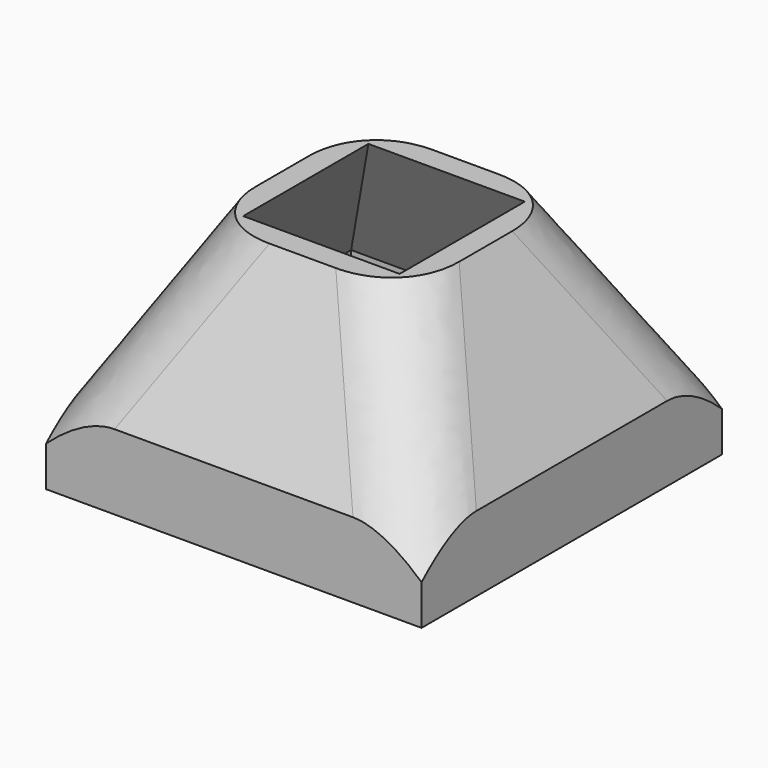
from build123d import *

# Parameters (mm, degrees)
F0_W     = 30.48
F0_H     = 30.48
F0_W_2   = 26.67
F0_H_2   = 26.67
F1_DEPTH = 2.286
F2_DEPTH = 3.81
F10_R    = 6.35


with BuildPart() as f1:
    # F0 (on Top) → F1 (new body)
    with BuildSketch(Plane.XY):
        Rectangle(F0_W, F0_H)
        Rectangle(F0_W_2, F0_H_2, mode=Mode.SUBTRACT)
    extrude(amount=-F1_DEPTH)

    # F0 (on Top) → F2 (join)
    with BuildSketch(Plane.XY):
        Rectangle(F0_W, F0_H)
        Rectangle(F0_W_2, F0_H_2, mode=Mode.SUBTRACT)
    extrude(amount=F2_DEPTH)

    # F5 (on face) → F6 section 0
    with BuildSketch(Plane.XY.offset(3.81)):
        Polygon((-13.335, 13.335), (-15.24, 15.24), (-15.24, -15.24), (-13.335, -13.335), align=None)
    # F4 (on offset) → F6 section 1
    with BuildSketch(Plane.XY.offset(16.51)):
        Polygon((-6.35, -6.35), (-6.35, 6.35), (-8.255, 8.255), (-8.255, -8.255), align=None)
    loft()

    # F5 (on face) → F7 section 0
    with BuildSketch(Plane.XY.offset(3.81)):
        Polygon((-15.24, -15.24), (15.24, -15.24), (13.335, -13.335), (-13.335, -13.335), align=None)
    # F4 (on offset) → F7 section 1
    with BuildSketch(Plane.XY.offset(16.51)):
        Polygon((8.255, -8.255), (6.35, -6.35), (-6.35, -6.35), (-8.255, -8.255), align=None)
    loft()

    # F5 (on face) → F8 section 0
    with BuildSketch(Plane.XY.offset(3.81)):
        Polygon((15.24, -15.24), (15.24, 15.24), (13.335, 13.335), (13.335, -13.335), align=None)
    # F4 (on offset) → F8 section 1
    with BuildSketch(Plane.XY.offset(16.51)):
        Polygon((8.255, 8.255), (6.35, 6.35), (6.35, -6.35), (8.255, -8.255), align=None)
    loft()

    # F5 (on face) → F9 section 0
    with BuildSketch(Plane.XY.offset(3.81)):
        Polygon((13.335, 13.335), (15.24, 15.24), (-15.24, 15.24), (-13.335, 13.335), align=None)
    # F4 (on offset) → F9 section 1
    with BuildSketch(Plane.XY.offset(16.51)):
        Polygon((-6.35, 6.35), (6.35, 6.35), (8.255, 8.255), (-8.255, 8.255), align=None)
    loft()

    # F10
    f10_edges = [f1.edges().sort_by_distance(p)[0] for p in [
        (-11.7475, -11.7475, 10.16),
        (11.7475, -11.7475, 10.16),
        (11.7475, 11.7475, 10.16),
        (-11.7475, 11.7475, 10.16),
    ]]
    fillet(f10_edges, radius=F10_R)


solid = f1.part
